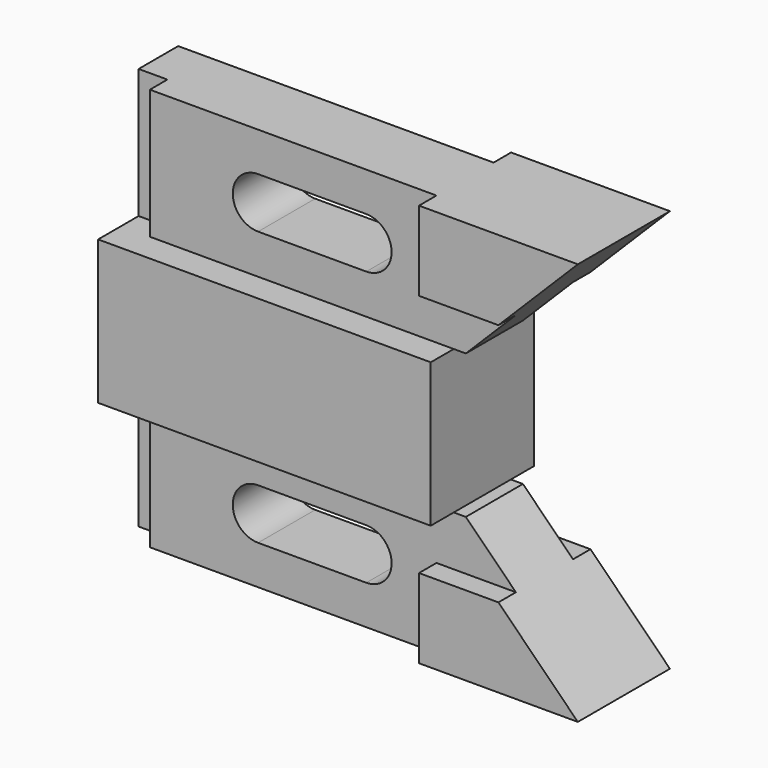
from build123d import *

# Parameters (mm, degrees)
F1_DEPTH      = 14.224
F1_DEPTH_BACK = 14.224
F2_DEPTH      = 7.874
F2_DEPTH_BACK = 7.874
F3_DEPTH      = 12.7
F3_DEPTH_BACK = 12.7
F0_W          = 6.35
F0_H          = 28.575
F4_DEPTH      = 3.048
F4_DEPTH_BACK = 7.874


with BuildPart() as f1:
    # F0 (on Front) → F1 (new body, two sides)
    with BuildSketch(Plane.XZ) as f1_sk:
        Polygon((6.35, 15.875), (0, 15.875), (0, -15.875), (6.35, -15.875), (73.406, -15.875), (73.406, 15.875), align=None)
    extrude(amount=F1_DEPTH)
    extrude(f1_sk.sketch, amount=-F1_DEPTH_BACK)

    # F0 (on Front) → F2 (join, two sides)
    with BuildSketch(Plane.XZ) as f2_sk:
        Polygon((69.596, 44.45), (6.35, 44.45), (6.35, 15.875), (73.406, 15.875), (76.073, 15.875), (87.122, 26.924), (69.596, 26.924), align=None)
        with BuildLine():
            ThreePointArc((30.226, 24.638), (24.638, 30.226), (30.226, 35.814))
            Line((30.226, 35.814), (54.102, 35.814))
            ThreePointArc((54.102, 35.814), (59.69, 30.226), (54.102, 24.638))
            Line((54.102, 24.638), (30.226, 24.638))
        make_face(mode=Mode.SUBTRACT)
        Polygon((73.406, -15.875), (6.35, -15.875), (6.35, -44.45), (69.596, -44.45), (69.596, -26.924), (87.122, -26.924), (76.073, -15.875), align=None)
        with BuildLine():
            Line((54.102, -35.814), (30.226, -35.814))
            ThreePointArc((30.226, -35.814), (24.638, -30.226), (30.226, -24.638))
            Line((30.226, -24.638), (54.102, -24.638))
            ThreePointArc((54.102, -24.638), (59.69, -30.226), (54.102, -35.814))
        make_face(mode=Mode.SUBTRACT)
        Polygon((104.648, 44.45), (69.596, 44.45), (69.596, 26.924), (87.122, 26.924), align=None)
        Polygon((69.596, -26.924), (69.596, -44.45), (104.648, -44.45), (87.122, -26.924), align=None)
    extrude(amount=F2_DEPTH)
    extrude(f2_sk.sketch, amount=-F2_DEPTH_BACK)

    # F0 (on Front) → F3 (join, two sides)
    with BuildSketch(Plane.XZ) as f3_sk:
        Polygon((104.648, 44.45), (69.596, 44.45), (69.596, 26.924), (87.122, 26.924), align=None)
        Polygon((69.596, -26.924), (69.596, -44.45), (104.648, -44.45), (87.122, -26.924), align=None)
    extrude(amount=F3_DEPTH)
    extrude(f3_sk.sketch, amount=-F3_DEPTH_BACK)

    # F0 (on Front) → F4 (join, two sides)
    with BuildSketch(Plane.XZ) as f4_sk:
        with Locations((3.175, 30.1625)):
            Rectangle(F0_W, F0_H)
        with Locations((3.175, -30.1625)):
            Rectangle(F0_W, F0_H)
    extrude(amount=F4_DEPTH)
    extrude(f4_sk.sketch, amount=-F4_DEPTH_BACK)


solid = f1.part
